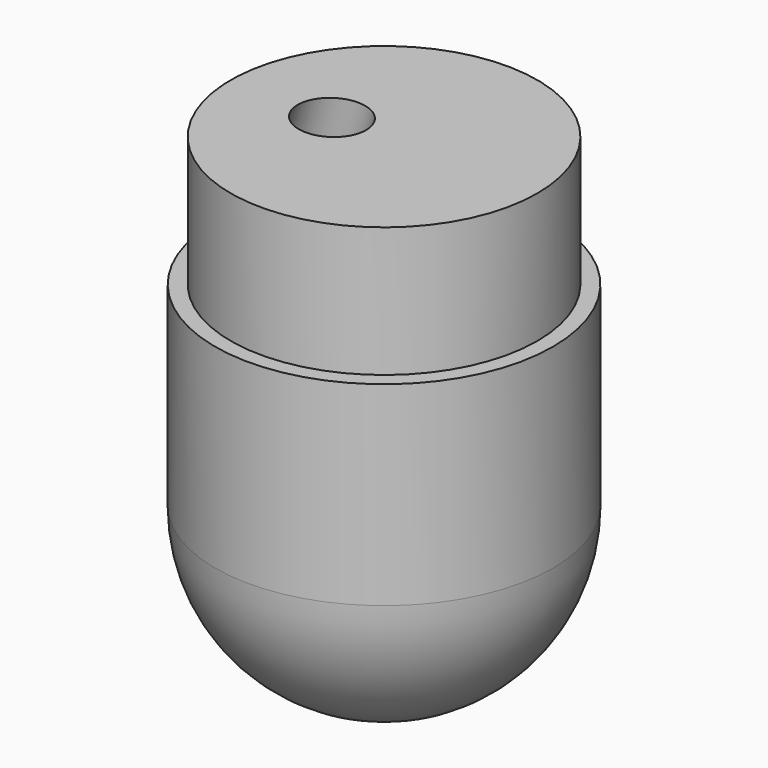
from build123d import *

# Parameters (mm, degrees)
F0_R      = 13
F1_DEPTH  = 25
F3_R      = 2.5
F7_ANGLE  = 90
F2_R      = 13
F2_R_2    = 11.8
F10_DEPTH = 10


with BuildPart() as f1:
    # F0 (on Top) → F1 (new body)
    with BuildSketch(Plane.XY):
        Circle(F0_R)
    extrude(amount=F1_DEPTH)

    # F8 (on Front) → F9 (revolve)
    with BuildSketch(Plane.XZ):
        with BuildLine():
            Line((0, 0), (0, -13))
            ThreePointArc((0, -13), (9.1923881554, -9.1923881554), (13, 0))
            Line((13, 0), (0, 0))
        make_face()
    revolve(axis=Axis((0, 0, 0), (0, 0, 1)))

    # F2 (on face) → F10 (cut)
    with BuildSketch(Plane.XY.offset(25)):
        Circle(F2_R)
        Circle(F2_R_2, mode=Mode.SUBTRACT)
    extrude(amount=-F10_DEPTH, mode=Mode.SUBTRACT)


with BuildPart() as f5:
    # F3 (on Front) → F5 (revolve)
    with BuildSketch(Plane.XZ):
        with Locations((-50, 50)):
            Circle(F3_R)
    revolve(axis=Axis((-130, 0, 0), (0, 0, 1)))


with BuildPart() as f5_1:
    # F6: moved
    add(f5.part.moved(Location((50, 0, 0))))


with BuildPart() as f5_2:
    # F7: moved
    add(f5_1.part.rotate(Axis((-88.6065643281, 0, 50), (-1, 0, 0)), F7_ANGLE))


with BuildPart() as f1_1:
    add(f1.part)

    # F11: cut F5
    add(f5_2.part, mode=Mode.SUBTRACT)


solid = f1_1.part
